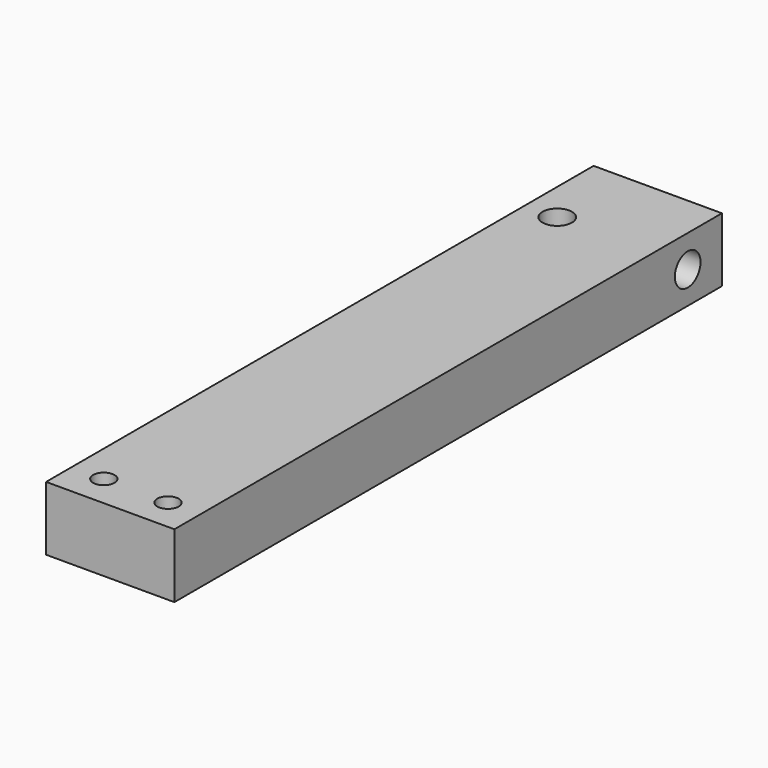
from build123d import *

# Parameters (mm, degrees)
F0_W     = 38.1
F0_H     = 203.2
F1_DEPTH = 19.05
F2_R     = 3.175
F3_DEPTH = 19.051
F4_R     = 4.365625
F5_DEPTH = 19.051
F6_R     = 4.7625
F7_DEPTH = 38.101
F8_DEPTH = 12.7


with BuildPart() as f1:
    # F0 (on Top) → F1 (new body)
    with BuildSketch(Plane.XY):
        Rectangle(F0_W, F0_H)
    extrude(amount=F1_DEPTH)

    # F2 (on face) → F3 (cut, through all)
    with BuildSketch(Plane.XY.offset(19.05)):
        with Locations((-9.525, -92.075)):
            Circle(F2_R)
        with Locations((9.525, -92.075)):
            Circle(F2_R)
    extrude(amount=-F3_DEPTH, mode=Mode.SUBTRACT)

    # F4 (on face) → F5 (cut, through all)
    with BuildSketch(Plane.XY.offset(19.05)):
        with Locations((-9.525, 76.2)):
            Circle(F4_R)
    extrude(amount=-F5_DEPTH, mode=Mode.SUBTRACT)

    # F6 (on face) → F7 (cut, through all)
    with BuildSketch(Plane(origin=(-19.05, 0, 0), x_dir=(0, -1, 0), z_dir=(-1, 0, 0))):
        with Locations((-88.9, 9.525)):
            Circle(F6_R)
    extrude(amount=-F7_DEPTH, mode=Mode.SUBTRACT)

    # F6 (on face) → F8 (cut)
    with BuildSketch(Plane(origin=(-19.05, 0, 0), x_dir=(0, -1, 0), z_dir=(-1, 0, 0))):
        with Locations((-33.3375, 9.525)):
            Circle(F6_R)
        with Locations((22.225, 9.525)):
            Circle(F6_R)
        with Locations((76.2, 9.525)):
            Circle(F6_R)
    extrude(amount=-F8_DEPTH, mode=Mode.SUBTRACT)


solid = f1.part
